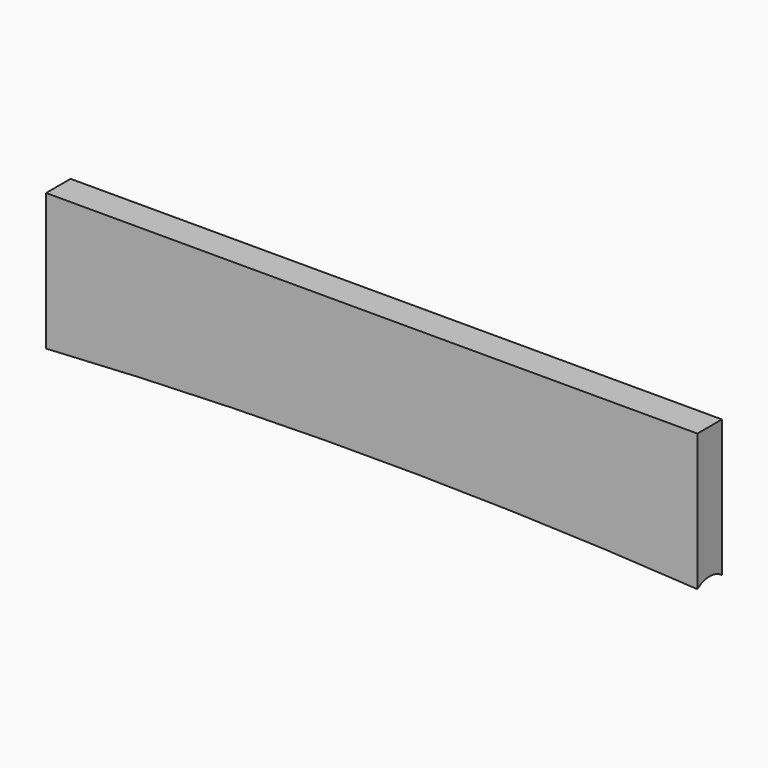
from build123d import *

# Parameters (mm, degrees)
F1_DEPTH = 3


with BuildPart() as f1:
    # F0 (on Front) → F1 (new body)
    with BuildSketch(Plane.XZ):
        with BuildLine():
            Line((63.7, 13.4), (0, 13.4))
            Line((0, 13.4), (0, 0))
            ThreePointArc((0, 0), (31.85, 0.9994304737), (63.7, 0))
            Line((63.7, 0), (63.7, 13.4))
        make_face()
    extrude(amount=F1_DEPTH)

    # F3: sweep along a path in F3_path
    with BuildLine(Plane(origin=(0, -3, 0), x_dir=(0, 0, 1), z_dir=(0, -1, 0))) as f3_path:
        ThreePointArc((0, 0), (0.9994304737, -31.85), (0, -63.7))
    # F2 (on face) → F3 (sweep, cut)
    with BuildSketch(Plane.YZ.offset(63.7)):
        with BuildLine():
            Line((-3, 0), (0, 0))
            ThreePointArc((0, 0), (-1.5, 0.5), (-3, 0))
        make_face()
    sweep(path=f3_path.line, mode=Mode.SUBTRACT)


solid = f1.part
